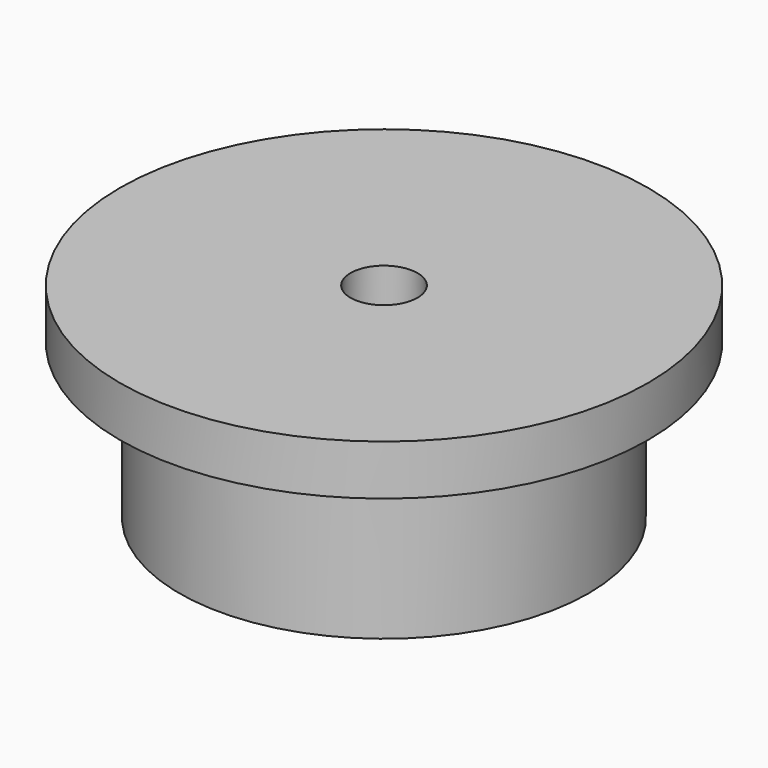
from build123d import *

# Parameters (mm, degrees)
SKETCH128_R   = 71
SKETCH128_R_2 = 9
PAD050_DEPTH  = 13.5
SKETCH131_R   = 55
PAD052_DEPTH  = 55


with BuildPart() as part:
    # Sketch128 → Pad050 (new body)
    with BuildSketch(Plane.XY):
        Circle(SKETCH128_R)
        Circle(SKETCH128_R_2, mode=Mode.SUBTRACT)
    extrude(amount=-PAD050_DEPTH)

    # Sketch131 → Pad052 (join)
    with BuildSketch(Plane.XY):
        Circle(SKETCH131_R)
    extrude(amount=-PAD052_DEPTH)

    # Sketch130 → Groove (revolve, cut)
    with BuildSketch(Plane.XZ):
        Polygon((0, 0), (9, 0), (9, -13.5), (4, -13.5), (4, -35.5), (0, -35.5), align=None)
    revolve(axis=Axis((0, 0, 0), (0, 0, 1)), mode=Mode.SUBTRACT)


solid = part.part
